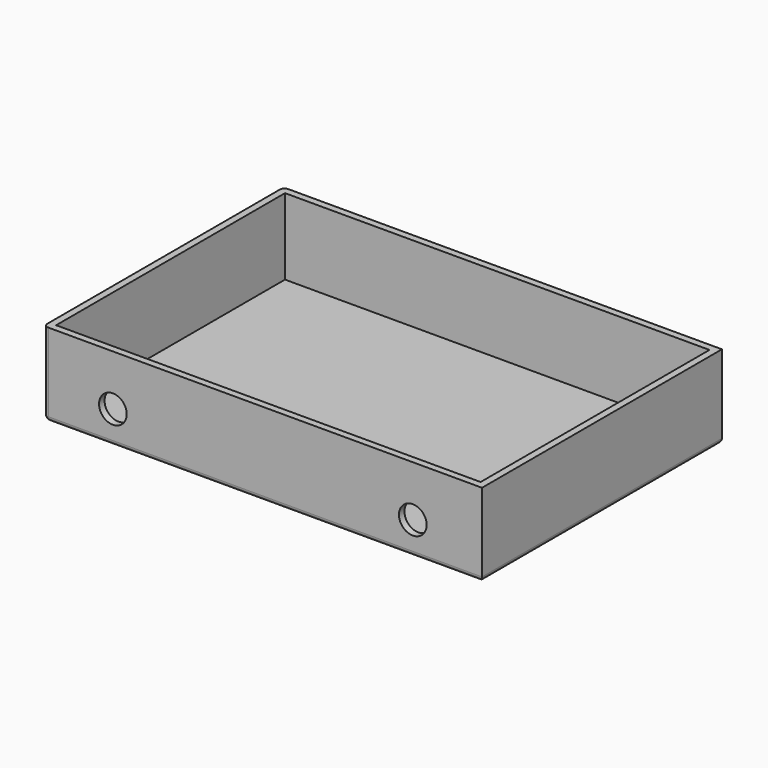
from build123d import *

# Parameters (mm, degrees)
F0_W     = 95
F0_H     = 65
F1_DEPTH = 18
F2_T     = -1.5
F3_R     = 3
F4_DEPTH = 10
F5_R     = 1


with BuildPart() as f1:
    # F0 (on Top) → F1 (new body)
    with BuildSketch(Plane.XY):
        Rectangle(F0_W, F0_H)
    extrude(amount=F1_DEPTH)

    # F2
    f2_openings = [f1.faces().sort_by_distance(p)[0] for p in [
        (0, 0, 18),
    ]]
    offset(amount=F2_T, openings=f2_openings)

    # F3 (on face) → F4 (cut)
    with BuildSketch(Plane.XZ.offset(32.5)):
        with Locations((-32.5, 7)):
            Circle(F3_R)
        with Locations((32.5, 7)):
            Circle(F3_R)
    extrude(amount=-F4_DEPTH, mode=Mode.SUBTRACT)

    # F5
    f5_edges = [f1.edges().sort_by_distance(p)[0] for p in [
        (47.5, 0, 0),
        (0, 32.5, 0),
        (0, -32.5, 0),
        (-47.5, 0, 0),
        (-47.5, -32.5, 9),
        (-47.5, 32.5, 9),
    ]]
    fillet(f5_edges, radius=F5_R)


solid = f1.part
